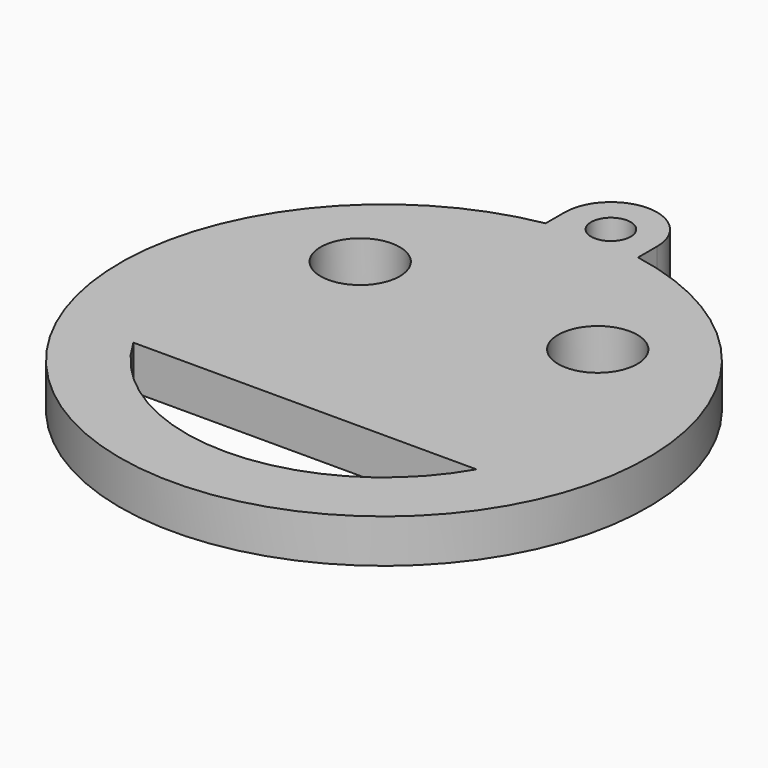
from build123d import *

# Parameters (mm, degrees)
EXTRUDE_DEPTH   = 3.3
SKETCH001_R     = 1.5
POCKET_DEPTH    = 3.301
SKETCH002_R     = 3
POCKET001_DEPTH = 3.301


with BuildPart() as part:
    # Sketch → Extrude (new body)
    with BuildSketch(Plane.XY):
        with BuildLine():
            ThreePointArc((3.5, 21.5), (0, 25), (-3.5, 21.5))
            Line((-3.5, 21.5), (-3.5, 19.691369))
            ThreePointArc((-3.5, 19.691369), (0, -20), (3.5, 19.691369))
            Line((3.5, 19.691369), (3.5, 21.5))
        make_face()
    extrude(amount=EXTRUDE_DEPTH)

    # Sketch001 (on Face6 of Extrude) → Pocket (cut, through all)
    with BuildSketch(Plane.XY.offset(3.3)):
        with Locations((0, 21.5)):
            Circle(SKETCH001_R)
    extrude(amount=-POCKET_DEPTH, mode=Mode.SUBTRACT)

    # Sketch002 (on Face1 of CopyClone) → Pocket001 (cut, through all)
    with BuildSketch(Plane.XY.offset(3.3)):
        with Locations((-9, 9)):
            Circle(SKETCH002_R)
        with Locations((9, 9)):
            Circle(SKETCH002_R)
        with BuildLine():
            Line((-13, -7.483315), (13, -7.483315))
            ThreePointArc((-13, -7.483315), (0, -15), (13, -7.483315))
        make_face()
    extrude(amount=-POCKET001_DEPTH, mode=Mode.SUBTRACT)


solid = part.part
